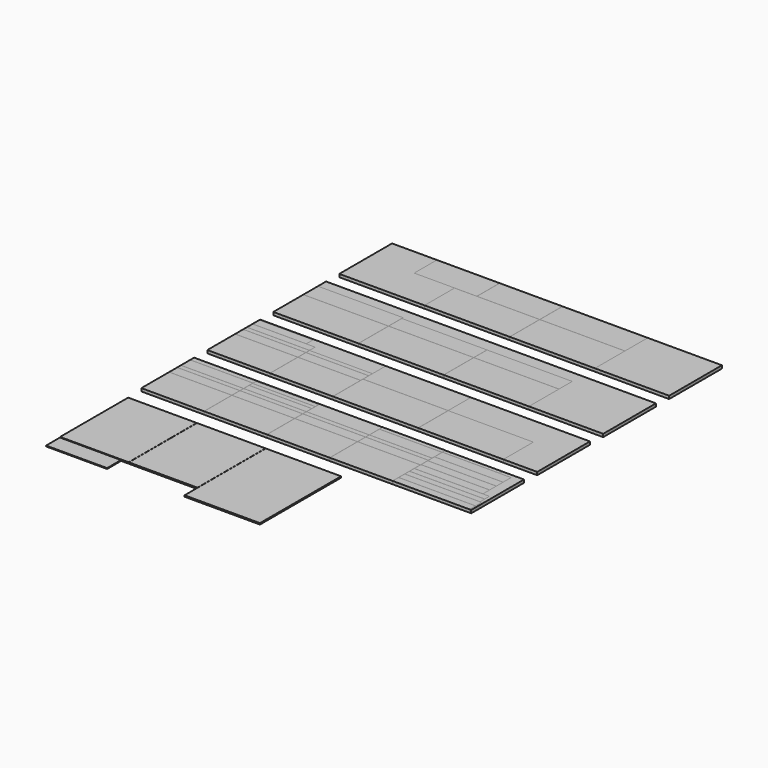
from build123d import *

# Parameters (mm, degrees)
BOX_W        = 2000
BOX_H        = 400
BOX_DEPTH    = 18
BOX001_W     = 380
BOX001_H     = 70
BOX001_DEPTH = 18
BOX002_W     = 380
BOX002_H     = 40
BOX002_DEPTH = 18
BOX003_W     = 380
BOX003_H     = 60
BOX003_DEPTH = 18
BOX004_W     = 380
BOX004_H     = 27
BOX004_DEPTH = 18
BOX005_W     = 380
BOX005_H     = 210
BOX005_DEPTH = 18
BOX007_W     = 380
BOX007_H     = 27
BOX007_DEPTH = 18
BOX008_W     = 380
BOX008_H     = 210
BOX008_DEPTH = 18
BOX006_W     = 380
BOX006_H     = 60
BOX006_DEPTH = 18
BOX009_W     = 380
BOX009_H     = 100
BOX009_DEPTH = 18
BOX010_W     = 380
BOX010_H     = 75
BOX010_DEPTH = 18
BOX014_W     = 380
BOX014_H     = 27
BOX014_DEPTH = 18
BOX015_W     = 380
BOX015_H     = 210
BOX015_DEPTH = 18
BOX016_W     = 380
BOX016_H     = 60
BOX016_DEPTH = 18
BOX012_W     = 380
BOX012_H     = 27
BOX012_DEPTH = 18
BOX013_W     = 380
BOX013_H     = 210
BOX013_DEPTH = 18
BOX017_W     = 380
BOX017_H     = 25
BOX017_DEPTH = 18
BOX018_W     = 380
BOX018_H     = 25
BOX018_DEPTH = 18
BOX019_W     = 380
BOX019_H     = 25
BOX019_DEPTH = 18
BOX011_W     = 380
BOX011_H     = 60
BOX011_DEPTH = 18
BOX020_W     = 380
BOX020_H     = 25
BOX020_DEPTH = 18
BOX021_W     = 466
BOX021_H     = 45
BOX021_DEPTH = 18
BOX022_W     = 2000
BOX022_H     = 400
BOX022_DEPTH = 18
BOX023_W     = 466
BOX023_H     = 45
BOX023_DEPTH = 18
BOX024_W     = 456
BOX024_H     = 35
BOX024_DEPTH = 18
BOX025_W     = 456
BOX025_H     = 35
BOX025_DEPTH = 18
BOX026_W     = 416
BOX026_H     = 50
BOX026_DEPTH = 18
BOX027_W     = 416
BOX027_H     = 50
BOX027_DEPTH = 18
BOX028_W     = 416
BOX028_H     = 50
BOX028_DEPTH = 18
BOX029_W     = 416
BOX029_H     = 60
BOX029_DEPTH = 18
BOX030_W     = 346
BOX030_H     = 18
BOX030_DEPTH = 18
BOX035_W     = 380
BOX035_H     = 210
BOX035_DEPTH = 18
BOX032_W     = 380
BOX032_H     = 210
BOX032_DEPTH = 18
BOX031_W     = 380
BOX031_H     = 27
BOX031_DEPTH = 18
BOX034_W     = 380
BOX034_H     = 27
BOX034_DEPTH = 18
BOX033_W     = 380
BOX033_H     = 60
BOX033_DEPTH = 18
BOX036_W     = 380
BOX036_H     = 60
BOX036_DEPTH = 18
BOX037_W     = 380
BOX037_H     = 210
BOX037_DEPTH = 18
BOX038_W     = 380
BOX038_H     = 210
BOX038_DEPTH = 18
BOX039_W     = 380
BOX039_H     = 27
BOX039_DEPTH = 18
BOX040_W     = 380
BOX040_H     = 27
BOX040_DEPTH = 18
BOX041_W     = 380
BOX041_H     = 60
BOX041_DEPTH = 18
BOX042_W     = 380
BOX042_H     = 60
BOX042_DEPTH = 18
BOX043_W     = 2000
BOX043_H     = 400
BOX043_DEPTH = 18
BOX044_W     = 516
BOX044_H     = 227
BOX044_DEPTH = 18
BOX045_W     = 516
BOX045_H     = 227
BOX045_DEPTH = 18
BOX046_W     = 516
BOX046_H     = 227
BOX046_DEPTH = 18
BOX047_W     = 516
BOX047_H     = 227
BOX047_DEPTH = 18
BOX048_W     = 2000
BOX048_H     = 400
BOX048_DEPTH = 18
BOX049_W     = 516
BOX049_H     = 227
BOX049_DEPTH = 18
BOX050_W     = 516
BOX050_H     = 227
BOX050_DEPTH = 18
BOX051_W     = 380
BOX051_H     = 42
BOX051_DEPTH = 18
BOX052_W     = 516
BOX052_H     = 110
BOX052_DEPTH = 18
BOX053_W     = 516
BOX053_H     = 100
BOX053_DEPTH = 18
BOX054_W     = 516
BOX054_H     = 100
BOX054_DEPTH = 18
BOX055_W     = 326
BOX055_H     = 50
BOX055_DEPTH = 18
BOX056_W     = 516
BOX056_H     = 227
BOX056_DEPTH = 18
BOX060_W     = 516
BOX060_H     = 172
BOX060_DEPTH = 18
BOX061_W     = 516
BOX061_H     = 172
BOX061_DEPTH = 18
BOX062_W     = 380
BOX062_H     = 172
BOX062_DEPTH = 18
BOX063_W     = 380
BOX063_H     = 172
BOX063_DEPTH = 18
BOX064_W     = 416
BOX064_H     = 516
BOX064_DEPTH = 8
BOX065_W     = 457
BOX065_H     = 615
BOX065_DEPTH = 8
BOX066_W     = 416
BOX066_H     = 516
BOX066_DEPTH = 8
BOX067_W     = 370
BOX067_H     = 105
BOX067_DEPTH = 5
BOX068_W     = 516
BOX068_H     = 227
BOX068_DEPTH = 18


with BuildPart() as brett:
    # Box → Box (new body)
    with BuildSketch(Plane.XY):
        with Locations((1000, 200)):
            Rectangle(BOX_W, BOX_H)
    extrude(amount=BOX_DEPTH)


with BuildPart() as obj1:
    # Box001 → Box001 (new body)
    with BuildSketch(Plane(origin=(0, 300, 0), x_dir=(1, 0, 0), z_dir=(0, 0, 1))):
        with Locations((190, 35)):
            Rectangle(BOX001_W, BOX001_H)
    extrude(amount=BOX001_DEPTH)


with BuildPart() as obj2:
    # Box002 → Box002 (new body)
    with BuildSketch(Plane(origin=(381, 300, 0), x_dir=(1, 0, 0), z_dir=(0, 0, 1))):
        with Locations((190, 20)):
            Rectangle(BOX002_W, BOX002_H)
    extrude(amount=BOX002_DEPTH)


with BuildPart() as obj3:
    # Box003 → Box003 (new body)
    with BuildSketch(Plane(origin=(1143, 211, 0), x_dir=(1, 0, 0), z_dir=(0, 0, 1))):
        with Locations((190, 30)):
            Rectangle(BOX003_W, BOX003_H)
    extrude(amount=BOX003_DEPTH)


with BuildPart() as obj4:
    # Box004 → Box004 (new body)
    with BuildSketch(Plane(origin=(1143, 272, 0), x_dir=(1, 0, 0), z_dir=(0, 0, 1))):
        with Locations((190, 13.5)):
            Rectangle(BOX004_W, BOX004_H)
    extrude(amount=BOX004_DEPTH)


with BuildPart() as obj5:
    # Box005 → Box005 (new body)
    with BuildSketch(Plane(origin=(1143, 0, 0), x_dir=(1, 0, 0), z_dir=(0, 0, 1))):
        with Locations((190, 105)):
            Rectangle(BOX005_W, BOX005_H)
    extrude(amount=BOX005_DEPTH)


with BuildPart() as obj6:
    # Box007 → Box007 (new body)
    with BuildSketch(Plane(origin=(762, 272, 0), x_dir=(1, 0, 0), z_dir=(0, 0, 1))):
        with Locations((190, 13.5)):
            Rectangle(BOX007_W, BOX007_H)
    extrude(amount=BOX007_DEPTH)


with BuildPart() as obj7:
    # Box008 → Box008 (new body)
    with BuildSketch(Plane(origin=(762, 0, 0), x_dir=(1, 0, 0), z_dir=(0, 0, 1))):
        with Locations((190, 105)):
            Rectangle(BOX008_W, BOX008_H)
    extrude(amount=BOX008_DEPTH)


with BuildPart() as obj8:
    # Box006 → Box006 (new body)
    with BuildSketch(Plane(origin=(762, 211, 0), x_dir=(1, 0, 0), z_dir=(0, 0, 1))):
        with Locations((190, 30)):
            Rectangle(BOX006_W, BOX006_H)
    extrude(amount=BOX006_DEPTH)


with BuildPart() as boden_back_with_hole:
    # Box009 → Box009 (new body)
    with BuildSketch(Plane(origin=(762, 300, 0), x_dir=(1, 0, 0), z_dir=(0, 0, 1))):
        with Locations((190, 50)):
            Rectangle(BOX009_W, BOX009_H)
    extrude(amount=BOX009_DEPTH)


with BuildPart() as obj9:
    # Box010 → Box010 (new body)
    with BuildSketch(Plane(origin=(1143, 300, 0), x_dir=(1, 0, 0), z_dir=(0, 0, 1))):
        with Locations((190, 37.5)):
            Rectangle(BOX010_W, BOX010_H)
    extrude(amount=BOX010_DEPTH)


with BuildPart() as obj10:
    # Box014 → Box014 (new body)
    with BuildSketch(Plane(origin=(0, 272, 0), x_dir=(1, 0, 0), z_dir=(0, 0, 1))):
        with Locations((190, 13.5)):
            Rectangle(BOX014_W, BOX014_H)
    extrude(amount=BOX014_DEPTH)


with BuildPart() as obj11:
    # Box015 → Box015 (new body)
    with BuildSketch(Plane(origin=(381, 0, 0), x_dir=(1, 0, 0), z_dir=(0, 0, 1))):
        with Locations((190, 105)):
            Rectangle(BOX015_W, BOX015_H)
    extrude(amount=BOX015_DEPTH)


with BuildPart() as obj12:
    # Box016 → Box016 (new body)
    with BuildSketch(Plane(origin=(0, 211, 0), x_dir=(1, 0, 0), z_dir=(0, 0, 1))):
        with Locations((190, 30)):
            Rectangle(BOX016_W, BOX016_H)
    extrude(amount=BOX016_DEPTH)


with BuildPart() as box012:
    # Box012 → Box012 (new body)
    with BuildSketch(Plane(origin=(381, 272, 0), x_dir=(1, 0, 0), z_dir=(0, 0, 1))):
        with Locations((190, 13.5)):
            Rectangle(BOX012_W, BOX012_H)
    extrude(amount=BOX012_DEPTH)


with BuildPart() as obj13:
    # Box013 → Box013 (new body)
    with BuildSketch(Plane.XY):
        with Locations((190, 105)):
            Rectangle(BOX013_W, BOX013_H)
    extrude(amount=BOX013_DEPTH)


with BuildPart() as obj14:
    # Box017 → Box017 (new body)
    with BuildSketch(Plane(origin=(381, 367, 0), x_dir=(1, 0, 0), z_dir=(0, 0, 1))):
        with Locations((190, 12.5)):
            Rectangle(BOX017_W, BOX017_H)
    extrude(amount=BOX017_DEPTH)


with BuildPart() as obj15:
    # Box018 → Box018 (new body)
    with BuildSketch(Plane(origin=(381, 341, 0), x_dir=(1, 0, 0), z_dir=(0, 0, 1))):
        with Locations((190, 12.5)):
            Rectangle(BOX018_W, BOX018_H)
    extrude(amount=BOX018_DEPTH)


with BuildPart() as obj16:
    # Box019 → Box019 (new body)
    with BuildSketch(Plane(origin=(0, 371, 0), x_dir=(1, 0, 0), z_dir=(0, 0, 1))):
        with Locations((190, 12.5)):
            Rectangle(BOX019_W, BOX019_H)
    extrude(amount=BOX019_DEPTH)


with BuildPart() as obj17:
    # Box011 → Box011 (new body)
    with BuildSketch(Plane(origin=(381, 211, 0), x_dir=(1, 0, 0), z_dir=(0, 0, 1))):
        with Locations((190, 30)):
            Rectangle(BOX011_W, BOX011_H)
    extrude(amount=BOX011_DEPTH)


with BuildPart() as obj18:
    # Box020 → Box020 (new body)
    with BuildSketch(Plane(origin=(1143, 376, 0), x_dir=(1, 0, 0), z_dir=(0, 0, 1))):
        with Locations((190, 12.5)):
            Rectangle(BOX020_W, BOX020_H)
    extrude(amount=BOX020_DEPTH)


with BuildPart() as boden_seite_rechts_unten:
    # Box021 → Box021 (new body)
    with BuildSketch(Plane(origin=(1524, 0, 0), x_dir=(1, 0, 0), z_dir=(0, 0, 1))):
        with Locations((233, 22.5)):
            Rectangle(BOX021_W, BOX021_H)
    extrude(amount=BOX021_DEPTH)


with BuildPart() as brett2:
    # Box022 → Box022 (new body)
    with BuildSketch(Plane(origin=(0, 500, 0), x_dir=(1, 0, 0), z_dir=(0, 0, 1))):
        with Locations((1000, 200)):
            Rectangle(BOX022_W, BOX022_H)
    extrude(amount=BOX022_DEPTH)


with BuildPart() as boden_seite_links_unten:
    # Box023 → Box023 (new body)
    with BuildSketch(Plane(origin=(1524, 46, 0), x_dir=(1, 0, 0), z_dir=(0, 0, 1))):
        with Locations((233, 22.5)):
            Rectangle(BOX023_W, BOX023_H)
    extrude(amount=BOX023_DEPTH)


with BuildPart() as boden_seite_rechts_oben:
    # Box024 → Box024 (new body)
    with BuildSketch(Plane(origin=(1524, 92, 0), x_dir=(1, 0, 0), z_dir=(0, 0, 1))):
        with Locations((228, 17.5)):
            Rectangle(BOX024_W, BOX024_H)
    extrude(amount=BOX024_DEPTH)


with BuildPart() as boden_seite_links_oben:
    # Box025 → Box025 (new body)
    with BuildSketch(Plane(origin=(1524, 128, 0), x_dir=(1, 0, 0), z_dir=(0, 0, 1))):
        with Locations((228, 17.5)):
            Rectangle(BOX025_W, BOX025_H)
    extrude(amount=BOX025_DEPTH)


with BuildPart() as obj19:
    # Box026 → Box026 (new body)
    with BuildSketch(Plane(origin=(1524, 215, 0), x_dir=(1, 0, 0), z_dir=(0, 0, 1))):
        with Locations((208, 25)):
            Rectangle(BOX026_W, BOX026_H)
    extrude(amount=BOX026_DEPTH)


with BuildPart() as obj20:
    # Box027 → Box027 (new body)
    with BuildSketch(Plane(origin=(1524, 164, 0), x_dir=(1, 0, 0), z_dir=(0, 0, 1))):
        with Locations((208, 25)):
            Rectangle(BOX027_W, BOX027_H)
    extrude(amount=BOX027_DEPTH)


with BuildPart() as obj21:
    # Box028 → Box028 (new body)
    with BuildSketch(Plane(origin=(1524, 266, 0), x_dir=(1, 0, 0), z_dir=(0, 0, 1))):
        with Locations((208, 25)):
            Rectangle(BOX028_W, BOX028_H)
    extrude(amount=BOX028_DEPTH)


with BuildPart() as obj22:
    # Box029 → Box029 (new body)
    with BuildSketch(Plane(origin=(1524, 317, 0), x_dir=(1, 0, 0), z_dir=(0, 0, 1))):
        with Locations((208, 30)):
            Rectangle(BOX029_W, BOX029_H)
    extrude(amount=BOX029_DEPTH)


with BuildPart() as obj23:
    # Box030 → Box030 (new body)
    with BuildSketch(Plane(origin=(1524, 378, 0), x_dir=(1, 0, 0), z_dir=(0, 0, 1))):
        with Locations((173, 9)):
            Rectangle(BOX030_W, BOX030_H)
    extrude(amount=BOX030_DEPTH)


with BuildPart() as obj24:
    # Box035 → Box035 (new body)
    with BuildSketch(Plane(origin=(0, 500, 0), x_dir=(1, 0, 0), z_dir=(0, 0, 1))):
        with Locations((190, 105)):
            Rectangle(BOX035_W, BOX035_H)
    extrude(amount=BOX035_DEPTH)


with BuildPart() as obj25:
    # Box032 → Box032 (new body)
    with BuildSketch(Plane(origin=(381, 500, 0), x_dir=(1, 0, 0), z_dir=(0, 0, 1))):
        with Locations((190, 105)):
            Rectangle(BOX032_W, BOX032_H)
    extrude(amount=BOX032_DEPTH)


with BuildPart() as obj26:
    # Box031 → Box031 (new body)
    with BuildSketch(Plane(origin=(0, 772, 0), x_dir=(1, 0, 0), z_dir=(0, 0, 1))):
        with Locations((190, 13.5)):
            Rectangle(BOX031_W, BOX031_H)
    extrude(amount=BOX031_DEPTH)


with BuildPart() as box034:
    # Box034 → Box034 (new body)
    with BuildSketch(Plane(origin=(381, 772, 0), x_dir=(1, 0, 0), z_dir=(0, 0, 1))):
        with Locations((190, 13.5)):
            Rectangle(BOX034_W, BOX034_H)
    extrude(amount=BOX034_DEPTH)


with BuildPart() as obj27:
    # Box033 → Box033 (new body)
    with BuildSketch(Plane(origin=(0, 711, 0), x_dir=(1, 0, 0), z_dir=(0, 0, 1))):
        with Locations((190, 30)):
            Rectangle(BOX033_W, BOX033_H)
    extrude(amount=BOX033_DEPTH)


with BuildPart() as obj28:
    # Box036 → Box036 (new body)
    with BuildSketch(Plane(origin=(381, 711, 0), x_dir=(1, 0, 0), z_dir=(0, 0, 1))):
        with Locations((190, 30)):
            Rectangle(BOX036_W, BOX036_H)
    extrude(amount=BOX036_DEPTH)


with BuildPart() as obj29:
    # Box037 → Box037 (new body)
    with BuildSketch(Plane(origin=(1551, 1500, 0), x_dir=(1, 0, 0), z_dir=(0, 0, 1))):
        with Locations((190, 105)):
            Rectangle(BOX037_W, BOX037_H)
    extrude(amount=BOX037_DEPTH)


with BuildPart() as obj30:
    # Box038 → Box038 (new body)
    with BuildSketch(Plane(origin=(1551, 1000, 0), x_dir=(1, 0, 0), z_dir=(0, 0, 1))):
        with Locations((190, 105)):
            Rectangle(BOX038_W, BOX038_H)
    extrude(amount=BOX038_DEPTH)


with BuildPart() as obj31:
    # Box039 → Box039 (new body)
    with BuildSketch(Plane(origin=(1551, 1772, 0), x_dir=(1, 0, 0), z_dir=(0, 0, 1))):
        with Locations((190, 13.5)):
            Rectangle(BOX039_W, BOX039_H)
    extrude(amount=BOX039_DEPTH)


with BuildPart() as box040:
    # Box040 → Box040 (new body)
    with BuildSketch(Plane(origin=(1551, 1272, 0), x_dir=(1, 0, 0), z_dir=(0, 0, 1))):
        with Locations((190, 13.5)):
            Rectangle(BOX040_W, BOX040_H)
    extrude(amount=BOX040_DEPTH)


with BuildPart() as obj32:
    # Box041 → Box041 (new body)
    with BuildSketch(Plane(origin=(1551, 1711, 0), x_dir=(1, 0, 0), z_dir=(0, 0, 1))):
        with Locations((190, 30)):
            Rectangle(BOX041_W, BOX041_H)
    extrude(amount=BOX041_DEPTH)


with BuildPart() as obj33:
    # Box042 → Box042 (new body)
    with BuildSketch(Plane(origin=(1551, 1211, 0), x_dir=(1, 0, 0), z_dir=(0, 0, 1))):
        with Locations((190, 30)):
            Rectangle(BOX042_W, BOX042_H)
    extrude(amount=BOX042_DEPTH)


with BuildPart() as box043:
    # Box043 → Box043 (new body)
    with BuildSketch(Plane(origin=(0, 1000, 0), x_dir=(1, 0, 0), z_dir=(0, 0, 1))):
        with Locations((1000, 200)):
            Rectangle(BOX043_W, BOX043_H)
    extrude(amount=BOX043_DEPTH)


with BuildPart() as obj34:
    # Box044 → Box044 (new body)
    with BuildSketch(Plane(origin=(0, 1000, 0), x_dir=(1, 0, 0), z_dir=(0, 0, 1))):
        with Locations((258, 113.5)):
            Rectangle(BOX044_W, BOX044_H)
    extrude(amount=BOX044_DEPTH)


with BuildPart() as obj35:
    # Box045 → Box045 (new body)
    with BuildSketch(Plane(origin=(517, 1000, 0), x_dir=(1, 0, 0), z_dir=(0, 0, 1))):
        with Locations((258, 113.5)):
            Rectangle(BOX045_W, BOX045_H)
    extrude(amount=BOX045_DEPTH)


with BuildPart() as obj36:
    # Box046 → Box046 (new body)
    with BuildSketch(Plane(origin=(0, 1500, 0), x_dir=(1, 0, 0), z_dir=(0, 0, 1))):
        with Locations((258, 113.5)):
            Rectangle(BOX046_W, BOX046_H)
    extrude(amount=BOX046_DEPTH)


with BuildPart() as obj37:
    # Box047 → Box047 (new body)
    with BuildSketch(Plane(origin=(1034, 1000, 0), x_dir=(1, 0, 0), z_dir=(0, 0, 1))):
        with Locations((258, 113.5)):
            Rectangle(BOX047_W, BOX047_H)
    extrude(amount=BOX047_DEPTH)


with BuildPart() as box048:
    # Box048 → Box048 (new body)
    with BuildSketch(Plane(origin=(0, 1500, 0), x_dir=(1, 0, 0), z_dir=(0, 0, 1))):
        with Locations((1000, 200)):
            Rectangle(BOX048_W, BOX048_H)
    extrude(amount=BOX048_DEPTH)


with BuildPart() as obj38:
    # Box049 → Box049 (new body)
    with BuildSketch(Plane(origin=(1034, 1500, 0), x_dir=(1, 0, 0), z_dir=(0, 0, 1))):
        with Locations((258, 113.5)):
            Rectangle(BOX049_W, BOX049_H)
    extrude(amount=BOX049_DEPTH)


with BuildPart() as obj39:
    # Box050 → Box050 (new body)
    with BuildSketch(Plane(origin=(517, 1500, 0), x_dir=(1, 0, 0), z_dir=(0, 0, 1))):
        with Locations((258, 113.5)):
            Rectangle(BOX050_W, BOX050_H)
    extrude(amount=BOX050_DEPTH)


with BuildPart() as obj40:
    # Box051 → Box051 (new body)
    with BuildSketch(Plane(origin=(0, 800, 0), x_dir=(1, 0, 0), z_dir=(0, 0, 1))):
        with Locations((190, 21)):
            Rectangle(BOX051_W, BOX051_H)
    extrude(amount=BOX051_DEPTH)


with BuildPart() as obj41:
    # Box052 → Box052 (new body)
    with BuildSketch(Plane(origin=(0, 1228, 0), x_dir=(1, 0, 0), z_dir=(0, 0, 1))):
        with Locations((258, 55)):
            Rectangle(BOX052_W, BOX052_H)
    extrude(amount=BOX052_DEPTH)


with BuildPart() as boden_seite_links:
    # Box053 → Box053 (new body)
    with BuildSketch(Plane(origin=(517, 1228, 0), x_dir=(1, 0, 0), z_dir=(0, 0, 1))):
        with Locations((258, 50)):
            Rectangle(BOX053_W, BOX053_H)
    extrude(amount=BOX053_DEPTH)


with BuildPart() as boden_seite_rechts:
    # Box054 → Box054 (new body)
    with BuildSketch(Plane(origin=(1034, 1228, 0), x_dir=(1, 0, 0), z_dir=(0, 0, 1))):
        with Locations((258, 50)):
            Rectangle(BOX054_W, BOX054_H)
    extrude(amount=BOX054_DEPTH)


with BuildPart() as obj42:
    # Box055 → Box055 (new body)
    with BuildSketch(Plane(origin=(0, 843, 0), x_dir=(1, 0, 0), z_dir=(0, 0, 1))):
        with Locations((163, 25)):
            Rectangle(BOX055_W, BOX055_H)
    extrude(amount=BOX055_DEPTH)


with BuildPart() as obj43:
    # Box056 → Box056 (new body)
    with BuildSketch(Plane(origin=(762, 500, 0), x_dir=(1, 0, 0), z_dir=(0, 0, 1))):
        with Locations((258, 113.5)):
            Rectangle(BOX056_W, BOX056_H)
    extrude(amount=BOX056_DEPTH)


with BuildPart() as obj44:
    # Box060 → Box060 (new body)
    with BuildSketch(Plane(origin=(762, 728, 0), x_dir=(1, 0, 0), z_dir=(0, 0, 1))):
        with Locations((258, 86)):
            Rectangle(BOX060_W, BOX060_H)
    extrude(amount=BOX060_DEPTH)


with BuildPart() as obj45:
    # Box061 → Box061 (new body)
    with BuildSketch(Plane(origin=(1034, 1728, 0), x_dir=(1, 0, 0), z_dir=(0, 0, 1))):
        with Locations((258, 86)):
            Rectangle(BOX061_W, BOX061_H)
    extrude(amount=BOX061_DEPTH)


with BuildPart() as obj46:
    # Box062 → Box062 (new body)
    with BuildSketch(Plane(origin=(653, 1728, 0), x_dir=(1, 0, 0), z_dir=(0, 0, 1))):
        with Locations((190, 86)):
            Rectangle(BOX062_W, BOX062_H)
    extrude(amount=BOX062_DEPTH)


with BuildPart() as obj47:
    # Box063 → Box063 (new body)
    with BuildSketch(Plane(origin=(272, 1728, 0), x_dir=(1, 0, 0), z_dir=(0, 0, 1))):
        with Locations((190, 86)):
            Rectangle(BOX063_W, BOX063_H)
    extrude(amount=BOX063_DEPTH)


with BuildPart() as obj48:
    # Box064 → Box064 (new body)
    with BuildSketch(Plane(origin=(0, -616, 0), x_dir=(1, 0, 0), z_dir=(0, 0, 1))):
        with Locations((208, 258)):
            Rectangle(BOX064_W, BOX064_H)
    extrude(amount=BOX064_DEPTH)


with BuildPart() as obj49:
    # Box065 → Box065 (new body)
    with BuildSketch(Plane(origin=(834, -715, 0), x_dir=(1, 0, 0), z_dir=(0, 0, 1))):
        with Locations((228.5, 307.5)):
            Rectangle(BOX065_W, BOX065_H)
    extrude(amount=BOX065_DEPTH)


with BuildPart() as obj50:
    # Box066 → Box066 (new body)
    with BuildSketch(Plane(origin=(417, -616, 0), x_dir=(1, 0, 0), z_dir=(0, 0, 1))):
        with Locations((208, 258)):
            Rectangle(BOX066_W, BOX066_H)
    extrude(amount=BOX066_DEPTH)


with BuildPart() as obj51:
    # Box067 → Box067 (new body)
    with BuildSketch(Plane(origin=(0, -722, 0), x_dir=(1, 0, 0), z_dir=(0, 0, 1))):
        with Locations((185, 52.5)):
            Rectangle(BOX067_W, BOX067_H)
    extrude(amount=BOX067_DEPTH)


with BuildPart() as obj52:
    # Box068 → Box068 (new body)
    with BuildSketch(Plane(origin=(1279, 500, 0), x_dir=(1, 0, 0), z_dir=(0, 0, 1))):
        with Locations((258, 113.5)):
            Rectangle(BOX068_W, BOX068_H)
    extrude(amount=BOX068_DEPTH)


solid = Compound([brett.part, obj1.part, obj2.part, obj3.part, obj4.part, obj5.part, obj6.part, obj7.part, obj8.part, boden_back_with_hole.part, obj9.part, obj10.part, obj11.part, obj12.part, box012.part, obj13.part, obj14.part, obj15.part, obj16.part, obj17.part, obj18.part, boden_seite_rechts_unten.part, brett2.part, boden_seite_links_unten.part, boden_seite_rechts_oben.part, boden_seite_links_oben.part, obj19.part, obj20.part, obj21.part, obj22.part, obj23.part, obj24.part, obj25.part, obj26.part, box034.part, obj27.part, obj28.part, obj29.part, obj30.part, obj31.part, box040.part, obj32.part, obj33.part, box043.part, obj34.part, obj35.part, obj36.part, obj37.part, box048.part, obj38.part, obj39.part, obj40.part, obj41.part, boden_seite_links.part, boden_seite_rechts.part, obj42.part, obj43.part, obj44.part, obj45.part, obj46.part, obj47.part, obj48.part, obj49.part, obj50.part, obj51.part, obj52.part])
